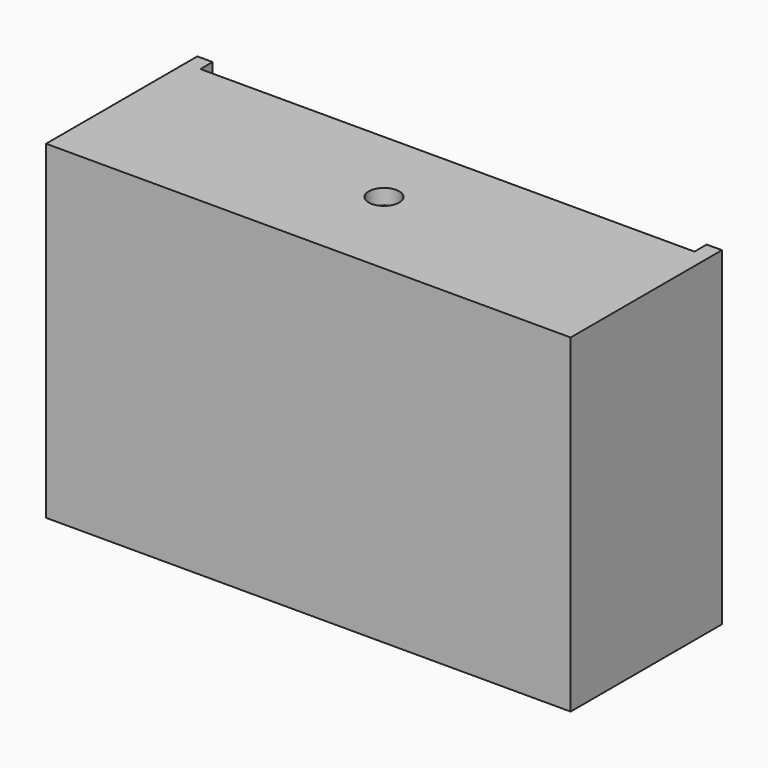
from build123d import *

# Parameters (mm, degrees)
F0_W     = 172
F0_H     = 108
F1_DEPTH = 62
F3_W     = 162
F3_H     = 98
F4_DEPTH = 57
F2_R     = 5
F5_DEPTH = 25
F6_W     = 162
F6_H     = 5
F7_DEPTH = 25


with BuildPart() as f1:
    # F0 (on Front) → F1 (new body)
    with BuildSketch(Plane.XZ):
        with Locations((6.416367, 0.38575)):
            Rectangle(F0_W, F0_H)
    extrude(amount=F1_DEPTH)

    # F3 (on face) → F4 (cut)
    with BuildSketch(Plane(origin=(0, 0, 0), x_dir=(-1, 0, 0), z_dir=(0, 1, 0))):
        with Locations((-6.416367, 0.38575)):
            Rectangle(F3_W, F3_H)
    extrude(amount=-F4_DEPTH, mode=Mode.SUBTRACT)

    # F2 (on face) → F5 (cut)
    with BuildSketch(Plane.XY.offset(54.38575)):
        with Locations((6.416367, -31)):
            Circle(F2_R)
    extrude(amount=-F5_DEPTH, mode=Mode.SUBTRACT)

    # F6 (on face) → F7 (cut)
    with BuildSketch(Plane.XY.offset(54.38575)):
        with Locations((6.416367, -2.5)):
            Rectangle(F6_W, F6_H)
    extrude(amount=-F7_DEPTH, mode=Mode.SUBTRACT)


solid = f1.part
